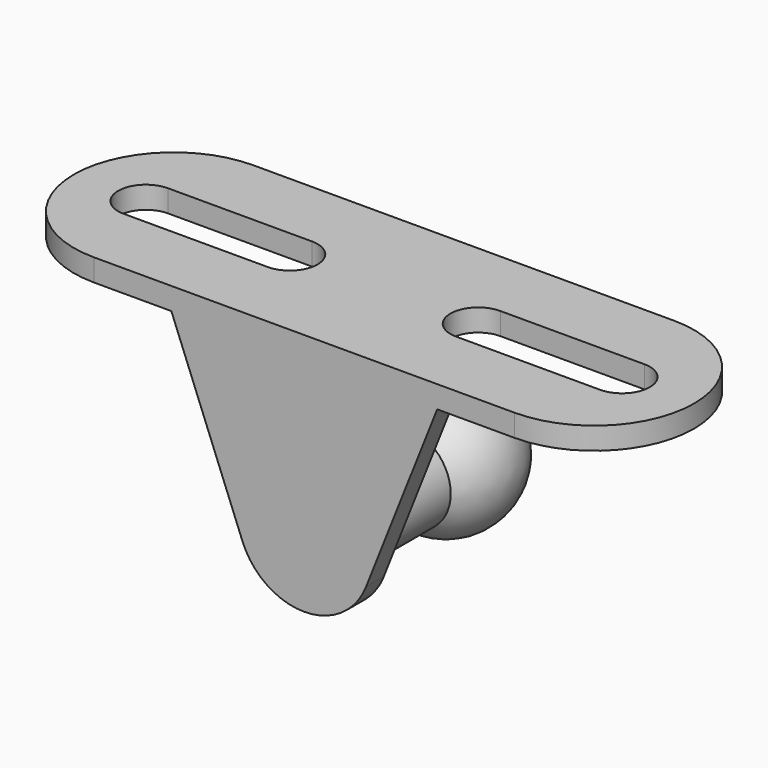
from build123d import *

# Parameters (mm, degrees)
F1_DEPTH = 1.5875
F4_W     = 19.05
F4_H     = 1.5875
F5_DEPTH = 1.5875


with BuildPart() as f1:
    # F0 (on Front) → F1 (new body)
    with BuildSketch(Plane.XZ):
        with BuildLine():
            ThreePointArc((4.4277010242, -1.7541008779), (4.6780515377, -0.8928830052), (4.7625, 0))
            ThreePointArc((4.7625, 0), (-0.8928830052, 4.6780515377), (-4.4277010242, -1.7541008779))
            ThreePointArc((-4.4277010242, -1.7541008779), (0, -4.7625), (4.4277010242, -1.7541008779))
        make_face()
        with BuildLine():
            ThreePointArc((-4.4277010242, -1.7541008779), (-0.8928830052, 4.6780515377), (4.7625, 0))
            ThreePointArc((4.7625, 0), (4.6780515377, -0.8928830052), (4.4277010242, -1.7541008779))
            Line((4.4277010242, -1.7541008779), (9.525, 11.1125))
            Line((9.525, 11.1125), (-9.525, 11.1125))
            Line((-9.525, 11.1125), (-4.4277010242, -1.7541008779))
        make_face()
    extrude(amount=F1_DEPTH)

    # F2 (on Top) → F3 (revolve)
    with BuildSketch(Plane.XY):
        with BuildLine():
            Line((0, 0), (3.175, 0))
            Line((3.175, 0), (3.175, 7.5627420857))
            ThreePointArc((3.175, 7.5627420857), (1.6993652025, 6.6635041404), (0, 6.35))
            Line((0, 6.35), (0, 0))
        make_face()
        with BuildLine():
            ThreePointArc((0, 6.35), (1.6993652025, 6.6635041404), (3.175, 7.5627420857))
            ThreePointArc((3.175, 7.5627420857), (4.4489958596, 12.8118652025), (0, 15.875))
            Line((0, 15.875), (0, 11.1125))
            Line((0, 11.1125), (0, 6.35))
        make_face()
    revolve(axis=Axis((0, 5.55625, 0), (0, -1, 0)))

    # F4 (on face) → F5 (join)
    with BuildSketch(Plane.XY.offset(11.1125)):
        with BuildLine():
            Line((9.525, -1.5875), (15.08125, -1.5875))
            ThreePointArc((15.08125, -1.5875), (22.225, 5.55625), (15.08125, 12.7))
            Line((15.08125, 12.7), (-15.08125, 12.7))
            ThreePointArc((-15.08125, 12.7), (-22.225, 5.55625), (-15.08125, -1.5875))
            Line((-15.08125, -1.5875), (-9.525, -1.5875))
            Line((-9.525, -1.5875), (-9.525, 0))
            Line((-9.525, 0), (9.525, 0))
            Line((9.525, 0), (9.525, -1.5875))
        make_face()
        with BuildLine():
            ThreePointArc((-17.065625, 3.571875), (-19.05, 5.55625), (-17.065625, 7.540625))
            Line((-17.065625, 7.540625), (-6.746875, 7.540625))
            ThreePointArc((-6.746875, 7.540625), (-4.7625, 5.55625), (-6.746875, 3.571875))
            Line((-6.746875, 3.571875), (-17.065625, 3.571875))
        make_face(mode=Mode.SUBTRACT)
        with BuildLine():
            ThreePointArc((17.065625, 7.540625), (19.05, 5.55625), (17.065625, 3.571875))
            Line((17.065625, 3.571875), (6.746875, 3.571875))
            ThreePointArc((6.746875, 3.571875), (4.7625, 5.55625), (6.746875, 7.540625))
            Line((6.746875, 7.540625), (17.065625, 7.540625))
        make_face(mode=Mode.SUBTRACT)
        with Locations((0, -0.79375)):
            Rectangle(F4_W, F4_H)
    extrude(amount=F5_DEPTH)


solid = f1.part
